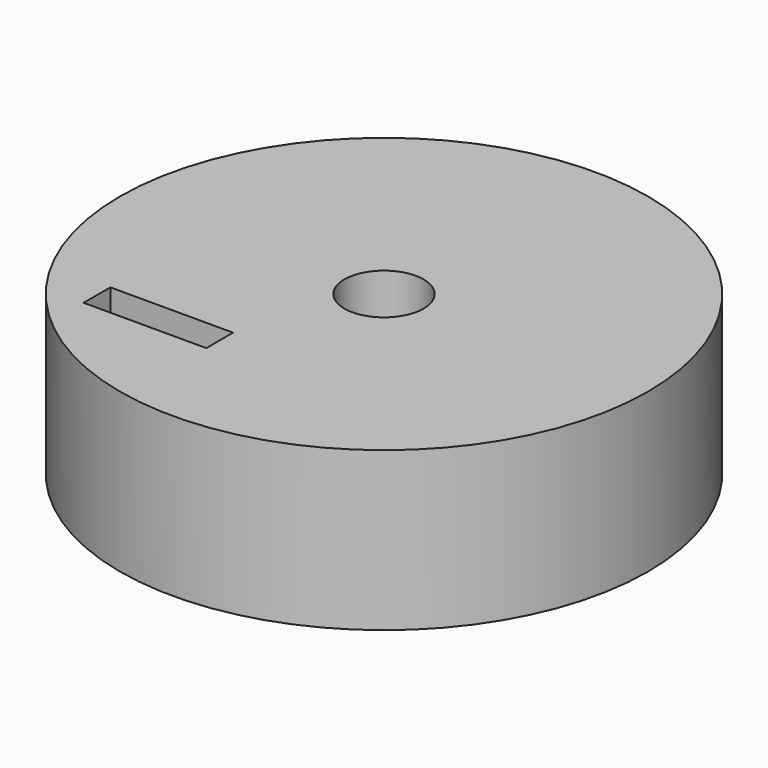
from build123d import *

# Parameters (mm, degrees)
F0_R     = 10
F0_W     = 4.646443
F0_H     = 1.266593
F0_R_2   = 1.5
F1_DEPTH = 6


with BuildPart() as f1:
    # F0 (on Top) → F1 (new body)
    with BuildSketch(Plane.XY):
        Circle(F0_R)
        with Locations((-4.260709, -5.35391)):
            Rectangle(F0_W, F0_H, mode=Mode.SUBTRACT)
        Circle(F0_R_2, mode=Mode.SUBTRACT)
    extrude(amount=F1_DEPTH)


solid = f1.part
